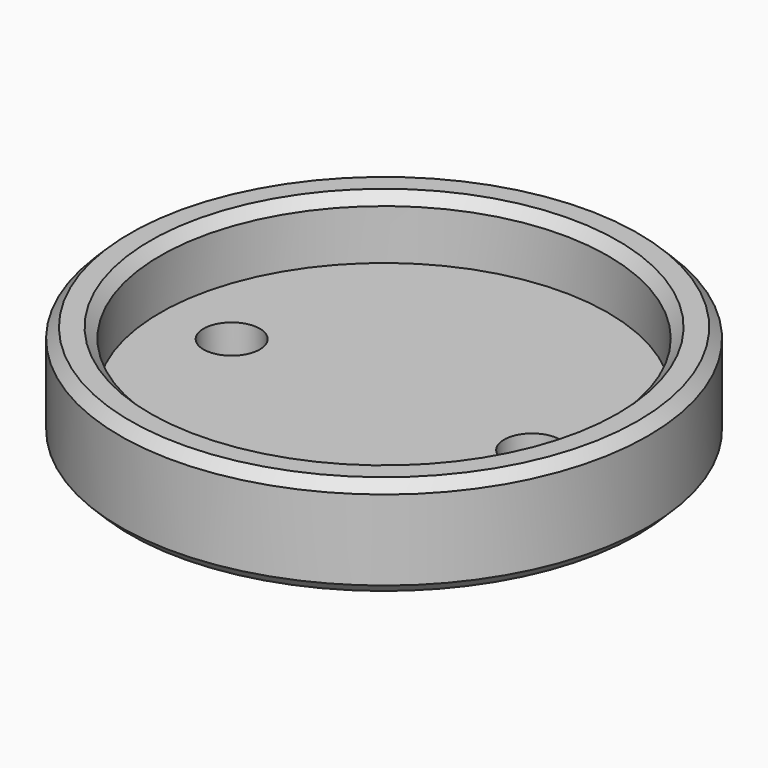
from build123d import *

# Parameters (mm, degrees)
F0_R           = 44.7
F1_DEPTH       = 8
F0_R_2         = 52.7000017464
F2_DEPTH       = 20
F4_D           = 6.6
F4_CBORE_D     = 11.25
F4_CBORE_DEPTH = 6
F5_SIZE        = 2


with BuildPart() as f1:
    # F0 (on Top) → F1 (new body)
    with BuildSketch(Plane.XY):
        Circle(F0_R)
    extrude(amount=F1_DEPTH)

    # F0 (on Top) → F2 (join)
    with BuildSketch(Plane.XY):
        Circle(F0_R_2)
        Circle(F0_R, mode=Mode.SUBTRACT)
    extrude(amount=F2_DEPTH)

    # F4 (through all)
    with Locations(Plane.XY.offset(8)):
        with Locations((-30.4298021065, 0), (29.5701978935, 0)):
            CounterBoreHole(F4_D / 2, F4_CBORE_D / 2, F4_CBORE_DEPTH)

    # F5
    f5_edges = [f1.edges().sort_by_distance(p)[0] for p in [
        (-52.700002, 0, 0),
        (-52.700002, 0, 20),
        (-44.7, 0, 20),
    ]]
    chamfer(f5_edges, length=F5_SIZE)


solid = f1.part
